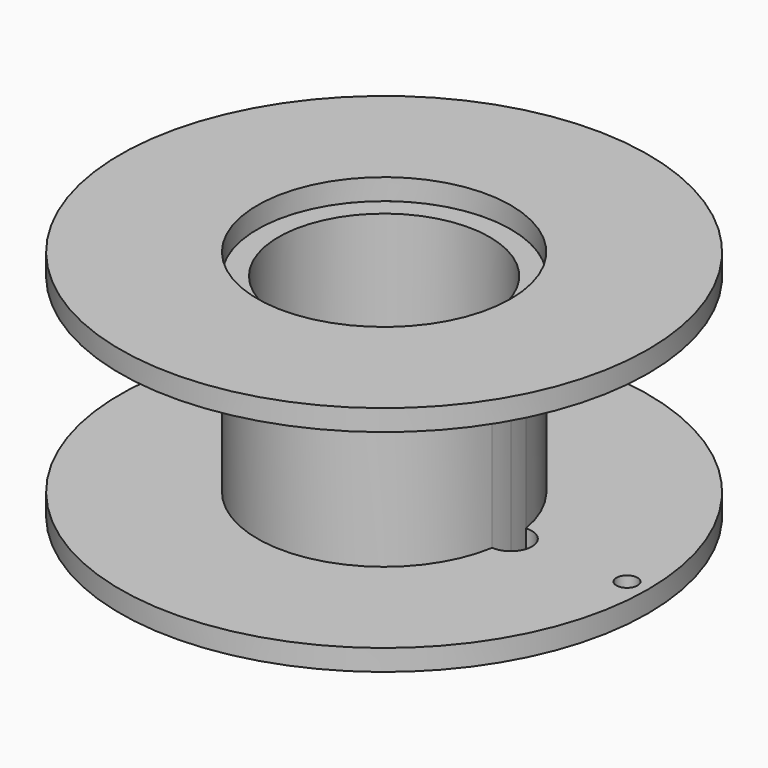
from build123d import *

# Parameters (mm, degrees)
F0_R     = 25
F0_R_2   = 1
F1_DEPTH = 2
F0_R_3   = 10
F2_DEPTH = 20
F3_R     = 25
F3_R_2   = 12
F4_DEPTH = 2


with BuildPart() as f1:
    # F0 (on Top) → F1 (new body)
    with BuildSketch(Plane.XY):
        Circle(F0_R)
        with BuildLine():
            ThreePointArc((-11.833333, 1.993043), (0, 12), (11.833333, 1.993043))
            ThreePointArc((11.833333, 1.993043), (14, 0), (11.833333, -1.993043))
            ThreePointArc((11.833333, -1.993043), (0, -12), (-11.833333, -1.993043))
            ThreePointArc((-11.833333, -1.993043), (-14, 0), (-11.833333, 1.993043))
        make_face(mode=Mode.SUBTRACT)
        with Locations((23, 0)):
            Circle(F0_R_2, mode=Mode.SUBTRACT)
    extrude(amount=F1_DEPTH)

    # F0 (on Top) → F2 (join)
    with BuildSketch(Plane.XY):
        with BuildLine():
            ThreePointArc((11.833333, -1.993043), (11.958261, -1), (12, 0))
            ThreePointArc((12, 0), (11.958261, 1), (11.833333, 1.993043))
            ThreePointArc((11.833333, 1.993043), (0, 12), (-11.833333, 1.993043))
            ThreePointArc((-11.833333, 1.993043), (-12, 0), (-11.833333, -1.993043))
            ThreePointArc((-11.833333, -1.993043), (0, -12), (11.833333, -1.993043))
        make_face()
        Circle(F0_R_3, mode=Mode.SUBTRACT)
    extrude(amount=F2_DEPTH)


with BuildPart() as f4:
    # F3 (on face) → F4 (new body)
    with BuildSketch(Plane.XY.offset(20)):
        Circle(F3_R)
        Circle(F3_R_2, mode=Mode.SUBTRACT)
    extrude(amount=F4_DEPTH)


solid = Compound([f1.part, f4.part])
